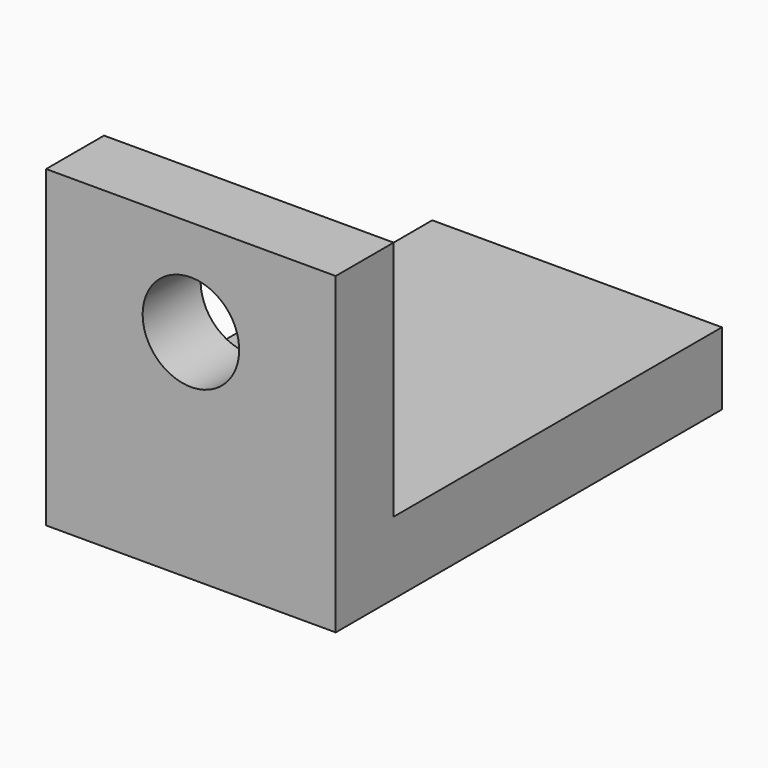
from build123d import *

# Parameters (mm, degrees)
F0_W     = 38.1
F0_H     = 63.5
F1_DEPTH = 9.525
F2_W     = 38.1
F2_H     = 9.525
F3_DEPTH = 31.75
F4_R     = 8.75
F5_DEPTH = 6.35
F6_R     = 6.35
F7_DEPTH = 25.4
F4_R_2   = 8.7503
F8_DEPTH = 6.35


with BuildPart() as f1:
    # F0 (on Top) → F1 (new body)
    with BuildSketch(Plane.XY):
        with Locations((19.05, 31.75)):
            Rectangle(F0_W, F0_H)
    extrude(amount=F1_DEPTH)

    # F2 (on face) → F3 (join)
    with BuildSketch(Plane.XY.offset(9.525)):
        with Locations((19.05, 4.7625)):
            Rectangle(F2_W, F2_H)
    extrude(amount=F3_DEPTH)

    # F4 (on face) → F5 (cut)
    with BuildSketch(Plane(origin=(0, 0, 0), x_dir=(1, 0, 0), z_dir=(0, 0, -1))):
        with Locations((19.05, -44.45)):
            Circle(F4_R)
    extrude(amount=-F5_DEPTH, mode=Mode.SUBTRACT)

    # F6 (on face) → F7 (cut)
    with BuildSketch(Plane(origin=(0, 9.525, 0), x_dir=(-1, 0, 0), z_dir=(0, 1, 0))):
        with Locations((-19.05, 28.575)):
            Circle(F6_R)
    extrude(amount=-F7_DEPTH, mode=Mode.SUBTRACT)

    # F4 (on face) → F8 (cut)
    with BuildSketch(Plane(origin=(0, 0, 0), x_dir=(1, 0, 0), z_dir=(0, 0, -1))):
        with Locations((19.05, -44.45)):
            Circle(F4_R)
        with Locations((19.05, -12.7)):
            Circle(F4_R_2)
    extrude(amount=-F8_DEPTH, mode=Mode.SUBTRACT)


solid = f1.part
